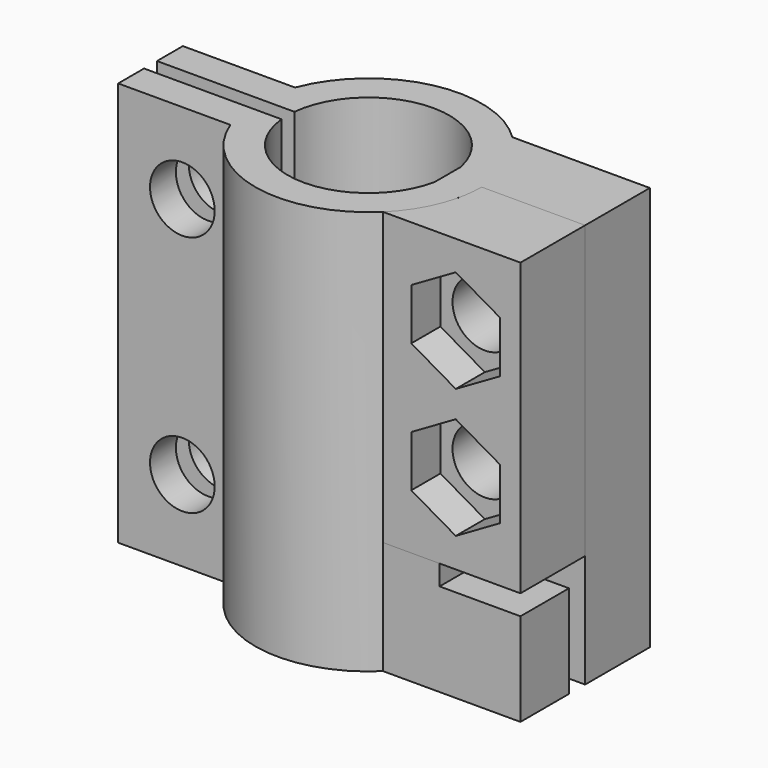
from build123d import *

# Parameters (mm, degrees)
F0_R       = 7
F0_R_2     = 5
F1_DEPTH   = 25
F2_W       = 1
F2_H       = 25
F3_DEPTH   = 25
F4_W       = 7.5
F4_H       = 25
F5_DEPTH   = 2
F7_W       = 5
F7_H       = 10
F8_DEPTH   = 25
F10_DEPTH  = 18
F11_DEPTH  = 2.5
F13_DEPTH  = 18
F14_DEPTH  = 1
F16_DEPTH  = 5
F17_R      = 2
F18_DEPTH  = 12.001
F19_R      = 2
F20_DEPTH  = 9.501
F22_DEPTH  = 18
F23_R      = 2
F24_DEPTH  = 7.001
F26_DEPTH  = 2.25
F6_FACE2_W = 2
F6_FACE2_H = 25
F5_FACE1_W = 2
F5_FACE1_H = 25
F27_DEPTH  = 1


with BuildPart() as f1:
    # F0 (on Top) → F1 (new body)
    with BuildSketch(Plane.XY):
        Circle(F0_R)
        Circle(F0_R_2, mode=Mode.SUBTRACT)
    extrude(amount=F1_DEPTH)

    # F2 (on Right) → F3 (cut)
    with BuildSketch(Plane.YZ):
        with Locations((0, 12.5)):
            Rectangle(F2_W, F2_H)
    extrude(amount=-F3_DEPTH, mode=Mode.SUBTRACT)

    # F6: F5 across plane


with BuildPart() as f5:
    # F4 (on face) → F5 (new body)
    with BuildSketch(Plane(origin=(0, -0.5, 0), x_dir=(-1, 0, 0), z_dir=(0, 1, 0))):
        with Locations((8.7249371855, 12.5)):
            Rectangle(F4_W, F4_H)
    extrude(amount=-F5_DEPTH)


with BuildPart() as f1_1:
    add(f1.part)
    add(f5.part.mirror(Plane.XZ))

    # F7 (on face) → F8 (join)
    with BuildSketch(Plane.XY.offset(25)):
        with Locations((7.3989794856, 0)):
            Rectangle(F7_W, F7_H)
    extrude(amount=-F8_DEPTH)

    # F9 (on face) → F10 (cut)
    with BuildSketch(Plane.XY.offset(25)):
        with BuildLine():
            ThreePointArc((6.7779471585, -1.7491232995), (6.0605035924, -3.5028982582), (4.8989794856, -5))
            Line((4.8989794856, -5), (9.8989794856, -5))
            Line((9.8989794856, -5), (9.8989794856, 0))
            Line((9.8989794856, 0), (6.7779471585, -1.7491232995))
        make_face()
    extrude(amount=-F10_DEPTH, mode=Mode.SUBTRACT)

    # F11 (add): faces of the model
    f11_faces = [f1_1.faces().sort_by_distance(p)[0] for p in [
        (9.8989794856, 1.40625, 10.53125),
        (9.8989794856, 1.40625, 10.53125),
    ]]
    extrude(f11_faces, amount=F11_DEPTH)

    # F12 (on face) → F13 (cut)
    with BuildSketch(Plane.XY.offset(25)):
        with BuildLine():
            ThreePointArc((7, 0), (6.9442649038, -0.8815809352), (6.7779471585, -1.7491232995))
            Line((6.7779471585, -1.7491232995), (9.8989794856, 0))
            Line((9.8989794856, 0), (7, 0))
        make_face()
    extrude(amount=-F13_DEPTH, mode=Mode.SUBTRACT)

    # F14 (add): a face of the model
    f14_faces = [f1_1.faces().sort_by_distance(p)[0] for p in [
        (12.3989794856, 1.40625, 10.53125),
    ]]
    extrude(f14_faces, amount=F14_DEPTH)

    # F15 (on face) → F16 (cut)
    with BuildSketch(Plane.YZ.offset(13.3989794856)):
        Polygon((-5, 5.75), (-1.25, 5.75), (-1.25, 0), (0, 0), (0, 7), (-5, 7), align=None)
    extrude(amount=-F16_DEPTH, mode=Mode.SUBTRACT)

    # F17 (on face) → F18 (cut, through all)
    with BuildSketch(Plane(origin=(0, 5, 0), x_dir=(-1, 0, 0), z_dir=(0, 1, 0))):
        with Locations((-9.3989794856, 20)):
            Circle(F17_R)
        with Locations((-9.3989794856, 12)):
            Circle(F17_R)
    extrude(amount=-F18_DEPTH, mode=Mode.SUBTRACT)


with BuildPart() as f20_tool:
    # F19 (on face) → F20 (new body, through all)
    with BuildSketch(Plane.XZ.offset(2.5)):
        with Locations((-9.5066428004, 20)):
            Circle(F19_R)
        with Locations((-9.5066428004, 5)):
            Circle(F19_R)
    extrude(amount=-F20_DEPTH)


with BuildPart() as f1_2:
    add(f1_1.part)

    # F20: cut by f20_tool
    add(f20_tool.part, mode=Mode.SUBTRACT)



with BuildPart() as f5_1:
    add(f5.part)

    # F20: cut by f20_tool
    add(f20_tool.part, mode=Mode.SUBTRACT)


with BuildPart() as f22:
    # F21 (on face) → F22 (new body)
    with BuildSketch(Plane.XY.offset(25)):
        with BuildLine():
            Line((13.3989794856, -5), (13.3989794856, 0))
            Line((13.3989794856, 0), (7, 0))
            ThreePointArc((7, 0), (6.4534043883, -2.7117470016), (4.8989794856, -5))
            Line((4.8989794856, -5), (13.3989794856, -5))
        make_face()
    extrude(amount=-F22_DEPTH)

    # F23 (on face) → F24 (cut, through all)
    with BuildSketch(Plane(origin=(0, 0, 0), x_dir=(-1, 0, 0), z_dir=(0, 1, 0))):
        with Locations((-9.3989794856, 20)):
            Circle(F23_R)
        with Locations((-9.3989794856, 12)):
            Circle(F23_R)
    extrude(amount=-F24_DEPTH, mode=Mode.SUBTRACT)

    # F25 (on face) → F26 (cut)
    with BuildSketch(Plane.XZ.offset(5)):
        Polygon((9.3989794856, 23.1754264805), (6.6489794856, 21.5877132403), (6.6489794856, 18.4122867597), (9.3989794856, 16.8245735195), (12.1489794856, 18.4122867597), (12.1489794856, 21.5877132403), align=None)
        Polygon((9.3989794856, 15.1754264805), (6.6489794856, 13.5877132403), (6.6489794856, 10.4122867597), (9.3989794856, 8.8245735195), (12.1489794856, 10.4122867597), (12.1489794856, 13.5877132403), align=None)
    extrude(amount=-F26_DEPTH, mode=Mode.SUBTRACT)


with BuildPart() as f1_3:
    add(f1_2.part)

    add(f5_1.part)  # F27 merges F5
    # F6_face2 (on face) + F5_face1 (on face) → F27 (join)
    with BuildSketch(Plane(origin=(-12.4749371855, 1.5, 12.5), x_dir=(0, -1, 0), z_dir=(-1, 0, 0))):
        Rectangle(F6_FACE2_W, F6_FACE2_H)
    with BuildSketch(Plane(origin=(-12.4749371855, -1.5, 12.5), x_dir=(0, -1, 0), z_dir=(-1, 0, 0))):
        Rectangle(F5_FACE1_W, F5_FACE1_H)
    extrude(amount=F27_DEPTH)


solid = Compound([f22.part, f1_3.part])
